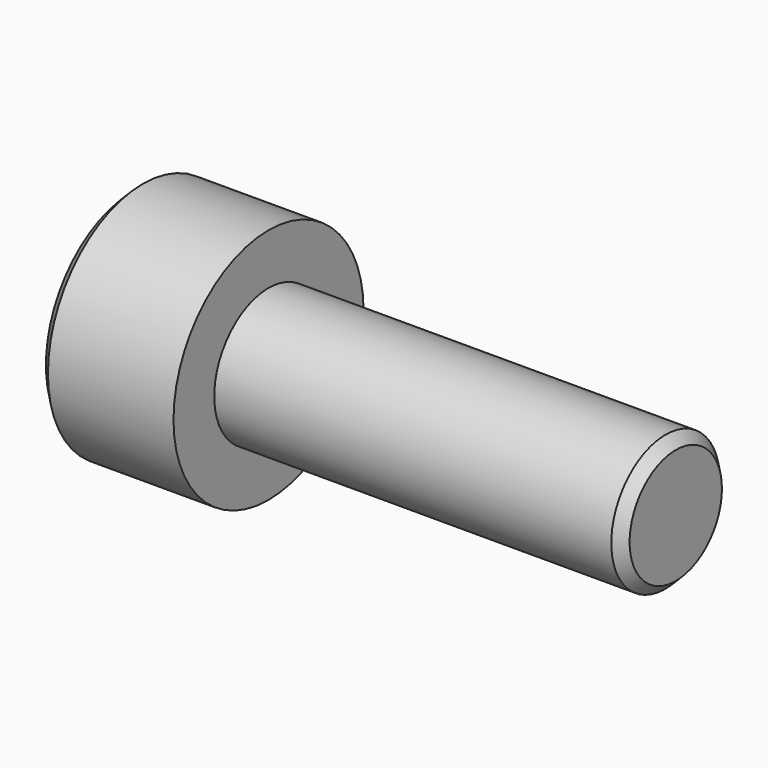
from build123d import *

# Parameters (mm, degrees)
F2_SIZE  = 0.3
F4_DEPTH = 2


with BuildPart() as f1:
    # F0 (on Top) → F1 (revolve)
    with BuildSketch(Plane.XY):
        Polygon((0, 3.5), (0, 0), (16, 0), (16, 2), (4, 2), (4, 3.5), align=None)
    revolve(axis=Axis((8, 0, 0), (-1, 0, 0)))

    # F2
    f2_edges = [f1.edges().sort_by_distance(p)[0] for p in [
        (0, -3.5, 0),
        (16, -2, 0),
    ]]
    chamfer(f2_edges, length=F2_SIZE)

    # F3 (on face) → F4 (cut)
    with BuildSketch(Plane(origin=(0, 0, 0), x_dir=(0, -1, 0), z_dir=(-1, 0, 0))):
        Polygon((1.525, 0.880459), (0, 1.760918), (-1.525, 0.880459), (-1.525, -0.880459), (0, -1.760918), (1.525, -0.880459), align=None)
    extrude(amount=-F4_DEPTH, mode=Mode.SUBTRACT)


solid = f1.part
